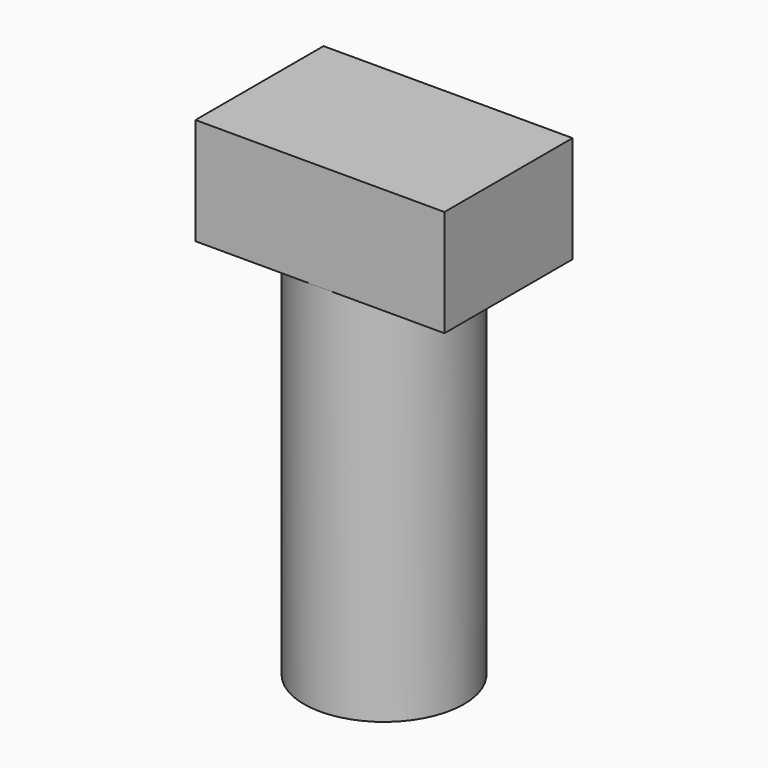
from build123d import *

# Parameters (mm, degrees)
SKETCH_R     = 2.25
PAD_DEPTH    = 10.5
SKETCH001_W  = 7
SKETCH001_H  = 4.5
PAD001_DEPTH = 3


with BuildPart() as part:
    # Sketch → Pad (new body)
    with BuildSketch(Plane.XY):
        Circle(SKETCH_R)
    extrude(amount=PAD_DEPTH)

    # Sketch001 (on Face3 of Pad) → Pad001 (join)
    with BuildSketch(Plane.XY.offset(10.5)):
        Rectangle(SKETCH001_W, SKETCH001_H)
    extrude(amount=PAD001_DEPTH)


solid = part.part
